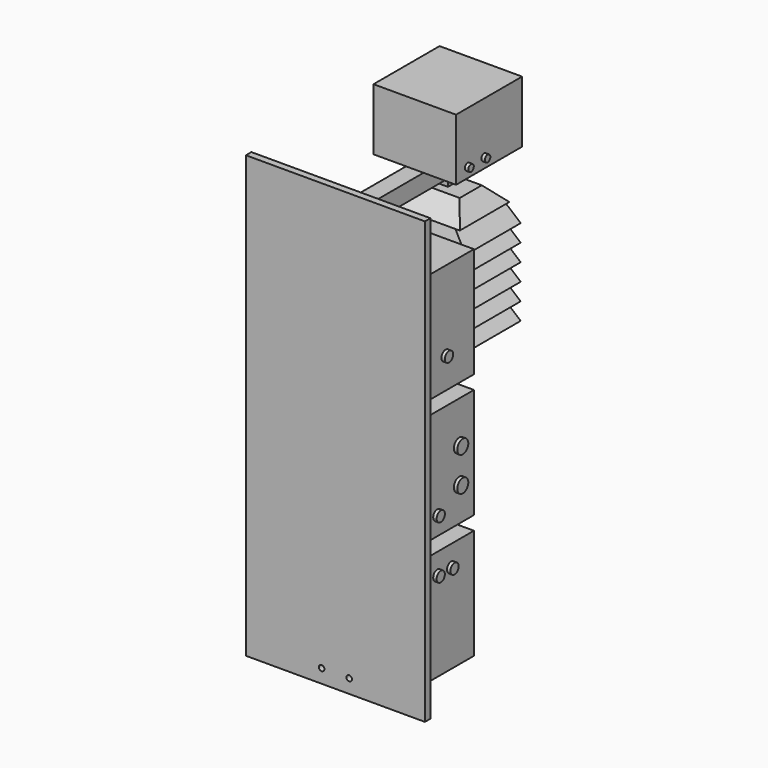
from build123d import *

# Parameters (mm, degrees)
BOX_W                   = 240.03
BOX_H                   = 91.44
BOX_DEPTH               = 160.02
BOX001_W                = 240.03
BOX001_H                = 91.44
BOX001_DEPTH            = 160.02
BOX002_W                = 240.03
BOX002_H                = 91.44
BOX002_DEPTH            = 160.02
BOX003_W                = 119.89
BOX003_H                = 119.89
BOX003_DEPTH            = 89.66
BOX005_W                = 25.4
BOX005_H                = 254
BOX005_DEPTH            = 25.4
BOX018_W                = 15
BOX018_H                = 15
BOX018_DEPTH            = 15
BOX017_W                = 110
BOX017_H                = 120
BOX017_DEPTH            = 46
BOX017_PLACEMENT_ANGLE  = 38.7
BOX016_W                = 110
BOX016_H                = 90
BOX016_DEPTH            = 25
BOX016_PITCH_ANGLE      = -52.3
BOX015_W                = 110
BOX015_H                = 90
BOX015_DEPTH            = 42
BOX015_ROLL_ANGLE       = 45
BOX014_W                = 110
BOX014_H                = 90
BOX014_DEPTH            = 25
BOX014_ROLL_ANGLE       = 45
BOX013_W                = 110
BOX013_H                = 90
BOX013_DEPTH            = 25
CYLINDER_R              = 15
CYLINDER_DEPTH          = 10
CYLINDER001_R           = 10
CYLINDER001_DEPTH       = 10
CYLINDER001_PITCH_ANGLE = 90
CYLINDER002_R           = 10
CYLINDER002_DEPTH       = 10
CYLINDER002_PITCH_ANGLE = 90
CYLINDER003_R           = 7.5
CYLINDER003_DEPTH       = 10
CYLINDER003_PITCH_ANGLE = 90
CYLINDER004_R           = 7.5
CYLINDER004_DEPTH       = 10
CYLINDER004_PITCH_ANGLE = 90
CYLINDER005_R           = 7.5
CYLINDER005_DEPTH       = 10
CYLINDER005_PITCH_ANGLE = 90
CYLINDER006_R           = 7.5
CYLINDER006_DEPTH       = 10
CYLINDER006_PITCH_ANGLE = 90
CYLINDER007_R           = 5
CYLINDER007_DEPTH       = 10
CYLINDER007_PITCH_ANGLE = 90
CYLINDER008_R           = 5
CYLINDER008_DEPTH       = 10
CYLINDER008_PITCH_ANGLE = 90
CYLINDER009_R           = 5
CYLINDER009_DEPTH       = 10
CYLINDER009_PITCH_ANGLE = 90
CYLINDER010_R           = 5
CYLINDER010_DEPTH       = 10
CYLINDER010_PITCH_ANGLE = 90
CYLINDER011_R           = 5
CYLINDER011_DEPTH       = 10
CYLINDER011_PITCH_ANGLE = 90
CYLINDER012_R           = 5
CYLINDER012_DEPTH       = 10
CYLINDER012_PITCH_ANGLE = 90
CYLINDER013_R           = 5
CYLINDER013_DEPTH       = 10
CYLINDER013_PITCH_ANGLE = 90
CYLINDER014_R           = 5
CYLINDER014_DEPTH       = 10
CYLINDER014_PITCH_ANGLE = 90
CYLINDER015_R           = 5
CYLINDER015_DEPTH       = 10
CYLINDER016_R           = 5
CYLINDER016_DEPTH       = 10
BOX026_W                = 200
BOX026_H                = 55
BOX026_DEPTH            = 88
BOX026_ROLL_ANGLE       = 13.5
BOX025_W                = 200
BOX025_H                = 500
BOX025_DEPTH            = 200
BOX025_ROLL_ANGLE       = -13.5
BOX028_W                = 20
BOX028_H                = 500
BOX028_DEPTH            = 200
BOX028_PLACEMENT_ANGLE  = 38.7
BOX024_W                = 135
BOX024_H                = 100
BOX024_DEPTH            = 25
BOX027_W                = 500
BOX027_H                = 500
BOX027_DEPTH            = 500
BOX027_PLACEMENT_ANGLE  = 38.7
BOX031_W                = 200
BOX031_H                = 55
BOX031_DEPTH            = 88
BOX031_ROLL_ANGLE       = 13.5
BOX030_W                = 200
BOX030_H                = 500
BOX030_DEPTH            = 200
BOX030_ROLL_ANGLE       = -13.5
BOX033_W                = 20
BOX033_H                = 500
BOX033_DEPTH            = 200
BOX033_PLACEMENT_ANGLE  = 38.7
BOX029_W                = 135
BOX029_H                = 100
BOX029_DEPTH            = 25
BOX032_W                = 500
BOX032_H                = 500
BOX032_DEPTH            = 500
BOX032_PLACEMENT_ANGLE  = 38.7
BOX036_W                = 200
BOX036_H                = 55
BOX036_DEPTH            = 88
BOX036_ROLL_ANGLE       = 13.5
BOX035_W                = 200
BOX035_H                = 500
BOX035_DEPTH            = 200
BOX035_ROLL_ANGLE       = -13.5
BOX038_W                = 20
BOX038_H                = 500
BOX038_DEPTH            = 200
BOX038_PLACEMENT_ANGLE  = 38.7
BOX034_W                = 135
BOX034_H                = 100
BOX034_DEPTH            = 25
BOX037_W                = 500
BOX037_H                = 500
BOX037_DEPTH            = 500
BOX037_PLACEMENT_ANGLE  = 38.7
BOX012_W                = 200
BOX012_H                = 55
BOX012_DEPTH            = 88
BOX012_ROLL_ANGLE       = 13.5
BOX008_W                = 200
BOX008_H                = 500
BOX008_DEPTH            = 200
BOX008_ROLL_ANGLE       = -13.5
BOX010_W                = 20
BOX010_H                = 500
BOX010_DEPTH            = 200
BOX010_PLACEMENT_ANGLE  = 38.7
BOX009_W                = 135
BOX009_H                = 100
BOX009_DEPTH            = 25
BOX011_W                = 500
BOX011_H                = 500
BOX011_DEPTH            = 500
BOX011_PLACEMENT_ANGLE  = 38.7
BOX023_W                = 200
BOX023_H                = 55
BOX023_DEPTH            = 88
BOX023_ROLL_ANGLE       = 13.5
BOX020_W                = 200
BOX020_H                = 500
BOX020_DEPTH            = 200
BOX020_ROLL_ANGLE       = -13.5
BOX022_W                = 20
BOX022_H                = 500
BOX022_DEPTH            = 200
BOX022_PLACEMENT_ANGLE  = 38.7
BOX019_W                = 135
BOX019_H                = 100
BOX019_DEPTH            = 25
BOX021_W                = 500
BOX021_H                = 500
BOX021_DEPTH            = 500
BOX021_PLACEMENT_ANGLE  = 38.7
CYLINDER018_R           = 4
CYLINDER018_DEPTH       = 10
CYLINDER018_ROLL_ANGLE  = 90
CYLINDER017_R           = 4
CYLINDER017_DEPTH       = 10
CYLINDER017_ROLL_ANGLE  = 90
BOX006_W                = 260.03
BOX006_H                = 10
BOX006_DEPTH            = 640
BOX039_W                = 50
BOX039_H                = 10
BOX039_DEPTH            = 40


with BuildPart() as power_module:
    # Box → Box (new body)
    with BuildSketch(Plane.XY):
        with Locations((120.015, 45.72)):
            Rectangle(BOX_W, BOX_H)
    extrude(amount=BOX_DEPTH)


with BuildPart() as main_module:
    # Box001 → Box001 (new body)
    with BuildSketch(Plane.XY.offset(180)):
        with Locations((120.015, 45.72)):
            Rectangle(BOX001_W, BOX001_H)
    extrude(amount=BOX001_DEPTH)


with BuildPart() as ozone_module:
    # Box002 → Box002 (new body)
    with BuildSketch(Plane.XY.offset(360)):
        with Locations((120.015, 45.72)):
            Rectangle(BOX002_W, BOX002_H)
    extrude(amount=BOX002_DEPTH)


with BuildPart() as light_module:
    # Box003 → Box003 (new body)
    with BuildSketch(Plane(origin=(60.05, 134.1, 565.4), x_dir=(1, 0, 0), z_dir=(0, 0, 1))):
        with Locations((59.945, 59.945)):
            Rectangle(BOX003_W, BOX003_H)
    extrude(amount=BOX003_DEPTH)


with BuildPart() as railing:
    # Box005 → Box005 (new body)
    with BuildSketch(Plane(origin=(107.3, 0, 540), x_dir=(1, 0, 0), z_dir=(0, 0, 1))):
        with Locations((12.7, 127)):
            Rectangle(BOX005_W, BOX005_H)
    extrude(amount=BOX005_DEPTH)


with BuildPart() as cube009:
    # Box018 → Box018 (new body)
    with BuildSketch(Plane(origin=(112.5, 185, 525), x_dir=(1, 0, 0), z_dir=(0, 0, 1))):
        with Locations((7.5, 7.5)):
            Rectangle(BOX018_W, BOX018_H)
    extrude(amount=BOX018_DEPTH)


with BuildPart() as cube008:
    # Box017 → Box017 (new body)
    with BuildSketch(Plane.XY):
        with Locations((55, 60)):
            Rectangle(BOX017_W, BOX017_H)
    extrude(amount=BOX017_DEPTH)


with BuildPart() as cube008_1:
    # Box017 placement: moved
    add(cube008.part.moved(Location((421, -226, 0))).rotate(Axis((421, -226, 0), (0, -1, 0)), BOX017_PLACEMENT_ANGLE))


with BuildPart() as cube007:
    # Box016 → Box016 (new body)
    with BuildSketch(Plane.XY):
        with Locations((55, 45)):
            Rectangle(BOX016_W, BOX016_H)
    extrude(amount=BOX016_DEPTH)


with BuildPart() as cube007_1:
    # Box016 pitch: moved
    add(cube007.part.rotate(Axis((0, 0, 0), (0, 1, 0)), BOX016_PITCH_ANGLE))


with BuildPart() as cube007_2:
    # Box016 placement: moved
    add(cube007_1.part.moved(Location((311, -226, 0))))


with BuildPart() as cube006:
    # Box015 → Box015 (new body)
    with BuildSketch(Plane.XY):
        with Locations((55, 45)):
            Rectangle(BOX015_W, BOX015_H)
    extrude(amount=BOX015_DEPTH)


with BuildPart() as cube006_1:
    # Box015 roll: moved
    add(cube006.part.rotate(Axis((0, 0, 0), (1, 0, 0)), BOX015_ROLL_ANGLE))


with BuildPart() as cube006_2:
    # Box015 placement: moved
    add(cube006_1.part.moved(Location((311, -136, 0))))


with BuildPart() as cube005:
    # Box014 → Box014 (new body)
    with BuildSketch(Plane.XY):
        with Locations((55, 45)):
            Rectangle(BOX014_W, BOX014_H)
    extrude(amount=BOX014_DEPTH)


with BuildPart() as cube005_1:
    # Box014 roll: moved
    add(cube005.part.rotate(Axis((0, 0, 0), (1, 0, 0)), BOX014_ROLL_ANGLE))


with BuildPart() as cube005_2:
    # Box014 placement: moved
    add(cube005_1.part.moved(Location((311, -226, 0))))


with BuildPart() as obj1:
    # Box013 → Box013 (new body)
    with BuildSketch(Plane(origin=(311, -226, 0), x_dir=(1, 0, 0), z_dir=(0, 0, 1))):
        with Locations((55, 45)):
            Rectangle(BOX013_W, BOX013_H)
    extrude(amount=BOX013_DEPTH)

    # Cut002: cut Cube005
    add(cube005_2.part, mode=Mode.SUBTRACT)

    # Cut003: cut Cube006
    add(cube006_2.part, mode=Mode.SUBTRACT)

    # Cut004: cut Cube007
    add(cube007_2.part, mode=Mode.SUBTRACT)

    # Cut005: cut Cube008
    add(cube008_1.part, mode=Mode.SUBTRACT)


with BuildPart() as obj1_1:
    # Cut005 placement: moved
    add(obj1.part.moved(Location((-246, 373, 500))))


with BuildPart() as cylinder:
    # Cylinder → Cylinder (new body)
    with BuildSketch(Plane(origin=(185, 53, 0), x_dir=(-1, 0, 0), z_dir=(0, 0, -1))):
        Circle(CYLINDER_R)
    extrude(amount=CYLINDER_DEPTH)


with BuildPart() as usb:
    # Cylinder001 → Cylinder001 (new body)
    with BuildSketch(Plane.XY):
        Circle(CYLINDER001_R)
    extrude(amount=CYLINDER001_DEPTH)


with BuildPart() as usb_1:
    # Cylinder001 pitch: moved
    add(usb.part.rotate(Axis((0, 0, 0), (0, 1, 0)), CYLINDER001_PITCH_ANGLE))


with BuildPart() as usb_2:
    # Cylinder001 placement: moved
    add(usb_1.part.moved(Location((235, 65, 230))))


with BuildPart() as hdmi:
    # Cylinder002 → Cylinder002 (new body)
    with BuildSketch(Plane.XY):
        Circle(CYLINDER002_R)
    extrude(amount=CYLINDER002_DEPTH)


with BuildPart() as hdmi_1:
    # Cylinder002 pitch: moved
    add(hdmi.part.rotate(Axis((0, 0, 0), (0, 1, 0)), CYLINDER002_PITCH_ANGLE))


with BuildPart() as hdmi_2:
    # Cylinder002 placement: moved
    add(hdmi_1.part.moved(Location((235, 65, 280))))


with BuildPart() as f_12v:
    # Cylinder003 → Cylinder003 (new body)
    with BuildSketch(Plane.XY):
        Circle(CYLINDER003_R)
    extrude(amount=CYLINDER003_DEPTH)


with BuildPart() as f_12v_1:
    # Cylinder003 pitch: moved
    add(f_12v.part.rotate(Axis((0, 0, 0), (0, 1, 0)), CYLINDER003_PITCH_ANGLE))


with BuildPart() as f_12v_2:
    # Cylinder003 placement: moved
    add(f_12v_1.part.moved(Location((235, 50, 130))))


with BuildPart() as f_5v:
    # Cylinder004 → Cylinder004 (new body)
    with BuildSketch(Plane.XY):
        Circle(CYLINDER004_R)
    extrude(amount=CYLINDER004_DEPTH)


with BuildPart() as f_5v_1:
    # Cylinder004 pitch: moved
    add(f_5v.part.rotate(Axis((0, 0, 0), (0, 1, 0)), CYLINDER004_PITCH_ANGLE))


with BuildPart() as f_5v_2:
    # Cylinder004 placement: moved
    add(f_5v_1.part.moved(Location((235, 25, 130))))


with BuildPart() as cylinder005:
    # Cylinder005 → Cylinder005 (new body)
    with BuildSketch(Plane.XY):
        Circle(CYLINDER005_R)
    extrude(amount=CYLINDER005_DEPTH)


with BuildPart() as cylinder005_1:
    # Cylinder005 pitch: moved
    add(cylinder005.part.rotate(Axis((0, 0, 0), (0, 1, 0)), CYLINDER005_PITCH_ANGLE))


with BuildPart() as cylinder005_2:
    # Cylinder005 placement: moved
    add(cylinder005_1.part.moved(Location((235, 25, 207))))


with BuildPart() as cylinder006:
    # Cylinder006 → Cylinder006 (new body)
    with BuildSketch(Plane.XY):
        Circle(CYLINDER006_R)
    extrude(amount=CYLINDER006_DEPTH)


with BuildPart() as cylinder006_1:
    # Cylinder006 pitch: moved
    add(cylinder006.part.rotate(Axis((0, 0, 0), (0, 1, 0)), CYLINDER006_PITCH_ANGLE))


with BuildPart() as cylinder006_2:
    # Cylinder006 placement: moved
    add(cylinder006_1.part.moved(Location((235, 40, 405))))


with BuildPart() as lightmoduleusb:
    # Cylinder007 → Cylinder007 (new body)
    with BuildSketch(Plane.XY):
        Circle(CYLINDER007_R)
    extrude(amount=CYLINDER007_DEPTH)


with BuildPart() as lightmoduleusb_1:
    # Cylinder007 pitch: moved
    add(lightmoduleusb.part.rotate(Axis((0, 0, 0), (0, 1, 0)), CYLINDER007_PITCH_ANGLE))


with BuildPart() as lightmoduleusb_2:
    # Cylinder007 placement: moved
    add(lightmoduleusb_1.part.moved(Location((-5, 75, 310))))


with BuildPart() as obj2:
    # Cylinder008 → Cylinder008 (new body)
    with BuildSketch(Plane.XY):
        Circle(CYLINDER008_R)
    extrude(amount=CYLINDER008_DEPTH)


with BuildPart() as obj2_1:
    # Cylinder008 pitch: moved
    add(obj2.part.rotate(Axis((0, 0, 0), (0, 1, 0)), CYLINDER008_PITCH_ANGLE))


with BuildPart() as obj2_2:
    # Cylinder008 placement: moved
    add(obj2_1.part.moved(Location((-5, 55, 260))))


with BuildPart() as obj3:
    # Cylinder009 → Cylinder009 (new body)
    with BuildSketch(Plane.XY):
        Circle(CYLINDER009_R)
    extrude(amount=CYLINDER009_DEPTH)


with BuildPart() as obj3_1:
    # Cylinder009 pitch: moved
    add(obj3.part.rotate(Axis((0, 0, 0), (0, 1, 0)), CYLINDER009_PITCH_ANGLE))


with BuildPart() as obj3_2:
    # Cylinder009 placement: moved
    add(obj3_1.part.moved(Location((-5, 45, 235))))


with BuildPart() as obj4:
    # Cylinder010 → Cylinder010 (new body)
    with BuildSketch(Plane.XY):
        Circle(CYLINDER010_R)
    extrude(amount=CYLINDER010_DEPTH)


with BuildPart() as obj4_1:
    # Cylinder010 pitch: moved
    add(obj4.part.rotate(Axis((0, 0, 0), (0, 1, 0)), CYLINDER010_PITCH_ANGLE))


with BuildPart() as obj4_2:
    # Cylinder010 placement: moved
    add(obj4_1.part.moved(Location((-5, 35, 210))))


with BuildPart() as camerausb:
    # Cylinder011 → Cylinder011 (new body)
    with BuildSketch(Plane.XY):
        Circle(CYLINDER011_R)
    extrude(amount=CYLINDER011_DEPTH)


with BuildPart() as camerausb_1:
    # Cylinder011 pitch: moved
    add(camerausb.part.rotate(Axis((0, 0, 0), (0, 1, 0)), CYLINDER011_PITCH_ANGLE))


with BuildPart() as camerausb_2:
    # Cylinder011 placement: moved
    add(camerausb_1.part.moved(Location((-5, 65, 285))))


with BuildPart() as cylinder012:
    # Cylinder012 → Cylinder012 (new body)
    with BuildSketch(Plane.XY):
        Circle(CYLINDER012_R)
    extrude(amount=CYLINDER012_DEPTH)


with BuildPart() as cylinder012_1:
    # Cylinder012 pitch: moved
    add(cylinder012.part.rotate(Axis((0, 0, 0), (0, 1, 0)), CYLINDER012_PITCH_ANGLE))


with BuildPart() as cylinder012_2:
    # Cylinder012 placement: moved
    add(cylinder012_1.part.moved(Location((-5, 35, 380))))


with BuildPart() as cylinder013:
    # Cylinder013 → Cylinder013 (new body)
    with BuildSketch(Plane.XY):
        Circle(CYLINDER013_R)
    extrude(amount=CYLINDER013_DEPTH)


with BuildPart() as cylinder013_1:
    # Cylinder013 pitch: moved
    add(cylinder013.part.rotate(Axis((0, 0, 0), (0, 1, 0)), CYLINDER013_PITCH_ANGLE))


with BuildPart() as cylinder013_2:
    # Cylinder013 placement: moved
    add(cylinder013_1.part.moved(Location((175, 155, 580))))


with BuildPart() as cylinder014:
    # Cylinder014 → Cylinder014 (new body)
    with BuildSketch(Plane.XY):
        Circle(CYLINDER014_R)
    extrude(amount=CYLINDER014_DEPTH)


with BuildPart() as cylinder014_1:
    # Cylinder014 pitch: moved
    add(cylinder014.part.rotate(Axis((0, 0, 0), (0, 1, 0)), CYLINDER014_PITCH_ANGLE))


with BuildPart() as cylinder014_2:
    # Cylinder014 placement: moved
    add(cylinder014_1.part.moved(Location((175, 185, 580))))


with BuildPart() as cylinder015:
    # Cylinder015 → Cylinder015 (new body)
    with BuildSketch(Plane(origin=(145, 195, 355), x_dir=(-1, 0, 0), z_dir=(0, 0, -1))):
        Circle(CYLINDER015_R)
    extrude(amount=CYLINDER015_DEPTH)


with BuildPart() as cylinder016:
    # Cylinder016 → Cylinder016 (new body)
    with BuildSketch(Plane(origin=(95, 195, 355), x_dir=(-1, 0, 0), z_dir=(0, 0, -1))):
        Circle(CYLINDER016_R)
    extrude(amount=CYLINDER016_DEPTH)


with BuildPart() as cube015:
    # Box026 → Box026 (new body)
    with BuildSketch(Plane.XY):
        with Locations((100, 27.5)):
            Rectangle(BOX026_W, BOX026_H)
    extrude(amount=BOX026_DEPTH)


with BuildPart() as cube015_1:
    # Box026 roll: moved
    add(cube015.part.rotate(Axis((0, 0, 0), (1, 0, 0)), BOX026_ROLL_ANGLE))


with BuildPart() as cube015_2:
    # Box026 placement: moved
    add(cube015_1.part.moved(Location((-33, -126, 0))))


with BuildPart() as cube014:
    # Box025 → Box025 (new body)
    with BuildSketch(Plane.XY):
        with Locations((100, 250)):
            Rectangle(BOX025_W, BOX025_H)
    extrude(amount=BOX025_DEPTH)


with BuildPart() as cube014_1:
    # Box025 roll: moved
    add(cube014.part.rotate(Axis((0, 0, 0), (1, 0, 0)), BOX025_ROLL_ANGLE))


with BuildPart() as cube014_2:
    # Box025 placement: moved
    add(cube014_1.part.moved(Location((-22, -226, 0))))


with BuildPart() as cube017:
    # Box028 → Box028 (new body)
    with BuildSketch(Plane.XY):
        with Locations((10, 250)):
            Rectangle(BOX028_W, BOX028_H)
    extrude(amount=BOX028_DEPTH)


with BuildPart() as cube017_1:
    # Box028 placement: moved
    add(cube017.part.moved(Location((135, -236, 0))).rotate(Axis((135, -236, 0), (0, -1, 0)), BOX028_PLACEMENT_ANGLE))


with BuildPart() as cut008:
    # Box024 → Box024 (new body)
    with BuildSketch(Plane(origin=(0, -226, 0), x_dir=(1, 0, 0), z_dir=(0, 0, 1))):
        with Locations((67.5, 50)):
            Rectangle(BOX024_W, BOX024_H)
    extrude(amount=BOX024_DEPTH)

    # Cut008: cut Cube017
    add(cube017_1.part, mode=Mode.SUBTRACT)


with BuildPart() as enclosure_common002:
    # Box027 → Box027 (new body)
    with BuildSketch(Plane.XY):
        with Locations((250, 250)):
            Rectangle(BOX027_W, BOX027_H)
    extrude(amount=BOX027_DEPTH)


with BuildPart() as enclosure_common002_1:
    # Box027 placement: moved
    add(enclosure_common002.part.moved(Location((0, -236, 0))).rotate(Axis((0, -236, 0), (0, 1, 0)), BOX027_PLACEMENT_ANGLE))

    # Common005: intersect Cut008
    add(cut008.part, mode=Mode.INTERSECT)

    # Common004: intersect Cube014
    add(cube014_2.part, mode=Mode.INTERSECT)

    # Cut009: cut Cube015
    add(cube015_2.part, mode=Mode.SUBTRACT)


with BuildPart() as enclosure_common002_2:
    # Cut009 placement: moved
    add(enclosure_common002_1.part.moved(Location((52.5, 368, 425))))


with BuildPart() as cube019:
    # Box031 → Box031 (new body)
    with BuildSketch(Plane.XY):
        with Locations((100, 27.5)):
            Rectangle(BOX031_W, BOX031_H)
    extrude(amount=BOX031_DEPTH)


with BuildPart() as cube019_1:
    # Box031 roll: moved
    add(cube019.part.rotate(Axis((0, 0, 0), (1, 0, 0)), BOX031_ROLL_ANGLE))


with BuildPart() as cube019_2:
    # Box031 placement: moved
    add(cube019_1.part.moved(Location((-33, -126, 0))))


with BuildPart() as cube018:
    # Box030 → Box030 (new body)
    with BuildSketch(Plane.XY):
        with Locations((100, 250)):
            Rectangle(BOX030_W, BOX030_H)
    extrude(amount=BOX030_DEPTH)


with BuildPart() as cube018_1:
    # Box030 roll: moved
    add(cube018.part.rotate(Axis((0, 0, 0), (1, 0, 0)), BOX030_ROLL_ANGLE))


with BuildPart() as cube018_2:
    # Box030 placement: moved
    add(cube018_1.part.moved(Location((-22, -226, 0))))


with BuildPart() as cube021:
    # Box033 → Box033 (new body)
    with BuildSketch(Plane.XY):
        with Locations((10, 250)):
            Rectangle(BOX033_W, BOX033_H)
    extrude(amount=BOX033_DEPTH)


with BuildPart() as cube021_1:
    # Box033 placement: moved
    add(cube021.part.moved(Location((135, -236, 0))).rotate(Axis((135, -236, 0), (0, -1, 0)), BOX033_PLACEMENT_ANGLE))


with BuildPart() as cut010:
    # Box029 → Box029 (new body)
    with BuildSketch(Plane(origin=(0, -226, 0), x_dir=(1, 0, 0), z_dir=(0, 0, 1))):
        with Locations((67.5, 50)):
            Rectangle(BOX029_W, BOX029_H)
    extrude(amount=BOX029_DEPTH)

    # Cut010: cut Cube021
    add(cube021_1.part, mode=Mode.SUBTRACT)


with BuildPart() as enclosure_common003:
    # Box032 → Box032 (new body)
    with BuildSketch(Plane.XY):
        with Locations((250, 250)):
            Rectangle(BOX032_W, BOX032_H)
    extrude(amount=BOX032_DEPTH)


with BuildPart() as enclosure_common003_1:
    # Box032 placement: moved
    add(enclosure_common003.part.moved(Location((0, -236, 0))).rotate(Axis((0, -236, 0), (0, 1, 0)), BOX032_PLACEMENT_ANGLE))

    # Common007: intersect Cut010
    add(cut010.part, mode=Mode.INTERSECT)

    # Common006: intersect Cube018
    add(cube018_2.part, mode=Mode.INTERSECT)

    # Cut011: cut Cube019
    add(cube019_2.part, mode=Mode.SUBTRACT)


with BuildPart() as enclosure_common003_2:
    # Cut011 placement: moved
    add(enclosure_common003_1.part.moved(Location((52.5, 368, 400))))


with BuildPart() as cube023:
    # Box036 → Box036 (new body)
    with BuildSketch(Plane.XY):
        with Locations((100, 27.5)):
            Rectangle(BOX036_W, BOX036_H)
    extrude(amount=BOX036_DEPTH)


with BuildPart() as cube023_1:
    # Box036 roll: moved
    add(cube023.part.rotate(Axis((0, 0, 0), (1, 0, 0)), BOX036_ROLL_ANGLE))


with BuildPart() as cube023_2:
    # Box036 placement: moved
    add(cube023_1.part.moved(Location((-33, -126, 0))))


with BuildPart() as cube022:
    # Box035 → Box035 (new body)
    with BuildSketch(Plane.XY):
        with Locations((100, 250)):
            Rectangle(BOX035_W, BOX035_H)
    extrude(amount=BOX035_DEPTH)


with BuildPart() as cube022_1:
    # Box035 roll: moved
    add(cube022.part.rotate(Axis((0, 0, 0), (1, 0, 0)), BOX035_ROLL_ANGLE))


with BuildPart() as cube022_2:
    # Box035 placement: moved
    add(cube022_1.part.moved(Location((-22, -226, 0))))


with BuildPart() as cube025:
    # Box038 → Box038 (new body)
    with BuildSketch(Plane.XY):
        with Locations((10, 250)):
            Rectangle(BOX038_W, BOX038_H)
    extrude(amount=BOX038_DEPTH)


with BuildPart() as cube025_1:
    # Box038 placement: moved
    add(cube025.part.moved(Location((135, -236, 0))).rotate(Axis((135, -236, 0), (0, -1, 0)), BOX038_PLACEMENT_ANGLE))


with BuildPart() as cut012:
    # Box034 → Box034 (new body)
    with BuildSketch(Plane(origin=(0, -226, 0), x_dir=(1, 0, 0), z_dir=(0, 0, 1))):
        with Locations((67.5, 50)):
            Rectangle(BOX034_W, BOX034_H)
    extrude(amount=BOX034_DEPTH)

    # Cut012: cut Cube025
    add(cube025_1.part, mode=Mode.SUBTRACT)


with BuildPart() as enclosure_common004:
    # Box037 → Box037 (new body)
    with BuildSketch(Plane.XY):
        with Locations((250, 250)):
            Rectangle(BOX037_W, BOX037_H)
    extrude(amount=BOX037_DEPTH)


with BuildPart() as enclosure_common004_1:
    # Box037 placement: moved
    add(enclosure_common004.part.moved(Location((0, -236, 0))).rotate(Axis((0, -236, 0), (0, 1, 0)), BOX037_PLACEMENT_ANGLE))

    # Common009: intersect Cut012
    add(cut012.part, mode=Mode.INTERSECT)

    # Common008: intersect Cube022
    add(cube022_2.part, mode=Mode.INTERSECT)

    # Cut013: cut Cube023
    add(cube023_2.part, mode=Mode.SUBTRACT)


with BuildPart() as enclosure_common004_2:
    # Cut013 placement: moved
    add(enclosure_common004_1.part.moved(Location((52.5, 368, 375))))


with BuildPart() as cube003:
    # Box012 → Box012 (new body)
    with BuildSketch(Plane.XY):
        with Locations((100, 27.5)):
            Rectangle(BOX012_W, BOX012_H)
    extrude(amount=BOX012_DEPTH)


with BuildPart() as cube003_1:
    # Box012 roll: moved
    add(cube003.part.rotate(Axis((0, 0, 0), (1, 0, 0)), BOX012_ROLL_ANGLE))


with BuildPart() as cube003_2:
    # Box012 placement: moved
    add(cube003_1.part.moved(Location((-33, -126, 0))))


with BuildPart() as cube001:
    # Box008 → Box008 (new body)
    with BuildSketch(Plane.XY):
        with Locations((100, 250)):
            Rectangle(BOX008_W, BOX008_H)
    extrude(amount=BOX008_DEPTH)


with BuildPart() as cube001_1:
    # Box008 roll: moved
    add(cube001.part.rotate(Axis((0, 0, 0), (1, 0, 0)), BOX008_ROLL_ANGLE))


with BuildPart() as cube001_2:
    # Box008 placement: moved
    add(cube001_1.part.moved(Location((-22, -226, 0))))


with BuildPart() as cube:
    # Box010 → Box010 (new body)
    with BuildSketch(Plane.XY):
        with Locations((10, 250)):
            Rectangle(BOX010_W, BOX010_H)
    extrude(amount=BOX010_DEPTH)


with BuildPart() as cube_1:
    # Box010 placement: moved
    add(cube.part.moved(Location((135, -236, 0))).rotate(Axis((135, -236, 0), (0, -1, 0)), BOX010_PLACEMENT_ANGLE))


with BuildPart() as cut:
    # Box009 → Box009 (new body)
    with BuildSketch(Plane(origin=(0, -226, 0), x_dir=(1, 0, 0), z_dir=(0, 0, 1))):
        with Locations((67.5, 50)):
            Rectangle(BOX009_W, BOX009_H)
    extrude(amount=BOX009_DEPTH)

    # Cut: cut Cube
    add(cube_1.part, mode=Mode.SUBTRACT)


with BuildPart() as common001:
    # Box011 → Box011 (new body)
    with BuildSketch(Plane.XY):
        with Locations((250, 250)):
            Rectangle(BOX011_W, BOX011_H)
    extrude(amount=BOX011_DEPTH)


with BuildPart() as common001_1:
    # Box011 placement: moved
    add(common001.part.moved(Location((0, -236, 0))).rotate(Axis((0, -236, 0), (0, 1, 0)), BOX011_PLACEMENT_ANGLE))

    # Common: intersect Cut
    add(cut.part, mode=Mode.INTERSECT)

    # Common001: intersect Cube001
    add(cube001_2.part, mode=Mode.INTERSECT)


with BuildPart() as enclosure_common005:
    # Cut014 base: copy of Common001
    add(common001_1.part)

    # Cut014: cut Cube003
    add(cube003_2.part, mode=Mode.SUBTRACT)


with BuildPart() as enclosure_common005_1:
    # Cut014 placement: moved
    add(enclosure_common005.part.moved(Location((52.5, 368, 350))))


with BuildPart() as enclosure_common000:
    # Cut001 base: copy of Common001
    add(common001_1.part)

    # Cut001: cut Cube003
    add(cube003_2.part, mode=Mode.SUBTRACT)


with BuildPart() as enclosure_common000_1:
    # Cut001 placement: moved
    add(enclosure_common000.part.moved(Location((52.5, 368, 475))))


with BuildPart() as cube013:
    # Box023 → Box023 (new body)
    with BuildSketch(Plane.XY):
        with Locations((100, 27.5)):
            Rectangle(BOX023_W, BOX023_H)
    extrude(amount=BOX023_DEPTH)


with BuildPart() as cube013_1:
    # Box023 roll: moved
    add(cube013.part.rotate(Axis((0, 0, 0), (1, 0, 0)), BOX023_ROLL_ANGLE))


with BuildPart() as cube013_2:
    # Box023 placement: moved
    add(cube013_1.part.moved(Location((-33, -126, 0))))


with BuildPart() as cube010:
    # Box020 → Box020 (new body)
    with BuildSketch(Plane.XY):
        with Locations((100, 250)):
            Rectangle(BOX020_W, BOX020_H)
    extrude(amount=BOX020_DEPTH)


with BuildPart() as cube010_1:
    # Box020 roll: moved
    add(cube010.part.rotate(Axis((0, 0, 0), (1, 0, 0)), BOX020_ROLL_ANGLE))


with BuildPart() as cube010_2:
    # Box020 placement: moved
    add(cube010_1.part.moved(Location((-22, -226, 0))))


with BuildPart() as cube012:
    # Box022 → Box022 (new body)
    with BuildSketch(Plane.XY):
        with Locations((10, 250)):
            Rectangle(BOX022_W, BOX022_H)
    extrude(amount=BOX022_DEPTH)


with BuildPart() as cube012_1:
    # Box022 placement: moved
    add(cube012.part.moved(Location((135, -236, 0))).rotate(Axis((135, -236, 0), (0, -1, 0)), BOX022_PLACEMENT_ANGLE))


with BuildPart() as cut007:
    # Box019 → Box019 (new body)
    with BuildSketch(Plane(origin=(0, -226, 0), x_dir=(1, 0, 0), z_dir=(0, 0, 1))):
        with Locations((67.5, 50)):
            Rectangle(BOX019_W, BOX019_H)
    extrude(amount=BOX019_DEPTH)

    # Cut007: cut Cube012
    add(cube012_1.part, mode=Mode.SUBTRACT)


with BuildPart() as fusion001:
    # Box021 → Box021 (new body)
    with BuildSketch(Plane.XY):
        with Locations((250, 250)):
            Rectangle(BOX021_W, BOX021_H)
    extrude(amount=BOX021_DEPTH)


with BuildPart() as fusion001_1:
    # Box021 placement: moved
    add(fusion001.part.moved(Location((0, -236, 0))).rotate(Axis((0, -236, 0), (0, 1, 0)), BOX021_PLACEMENT_ANGLE))

    # Common002: intersect Cut007
    add(cut007.part, mode=Mode.INTERSECT)

    # Common003: intersect Cube010
    add(cube010_2.part, mode=Mode.INTERSECT)

    # Cut006: cut Cube013
    add(cube013_2.part, mode=Mode.SUBTRACT)


with BuildPart() as fusion001_2:
    # Cut006 placement: moved
    add(fusion001_1.part.moved(Location((52.5, 368, 450))))

    # Fusion001: union Enclosure Common002, Enclosure Common003, Enclosure Common004, Enclosure Common005, Enclosure Common000
    add(enclosure_common002_2.part)
    add(enclosure_common003_2.part)
    add(enclosure_common004_2.part)
    add(enclosure_common005_1.part)
    add(enclosure_common000_1.part)


with BuildPart() as cutout001:
    # Cylinder018 → Cylinder018 (new body)
    with BuildSketch(Plane.XY):
        Circle(CYLINDER018_R)
    extrude(amount=CYLINDER018_DEPTH)


with BuildPart() as cutout001_1:
    # Cylinder018 roll: moved
    add(cutout001.part.rotate(Axis((0, 0, 0), (1, 0, 0)), CYLINDER018_ROLL_ANGLE))


with BuildPart() as cutout001_2:
    # Cylinder018 placement: moved
    add(cutout001_1.part.moved(Location((100, 0, -20))))


with BuildPart() as cutout:
    # Cylinder017 → Cylinder017 (new body)
    with BuildSketch(Plane.XY):
        Circle(CYLINDER017_R)
    extrude(amount=CYLINDER017_DEPTH)


with BuildPart() as cutout_1:
    # Cylinder017 roll: moved
    add(cutout.part.rotate(Axis((0, 0, 0), (1, 0, 0)), CYLINDER017_ROLL_ANGLE))


with BuildPart() as cutout_2:
    # Cylinder017 placement: moved
    add(cutout_1.part.moved(Location((140, 0, -20))))


with BuildPart() as cutout2:
    # Fusion002 base: copy of CutOut
    add(cutout_2.part)

    # Fusion002: union CutOut001
    add(cutout001_2.part)


with BuildPart() as cutout2_1:
    # Fusion002 placement: moved
    add(cutout2.part.moved(Location((0, 0, 600))))


with BuildPart() as cutout1:
    # Fusion base: copy of CutOut
    add(cutout_2.part)

    # Fusion: union CutOut001
    add(cutout001_2.part)


with BuildPart() as cut015:
    # Box006 → Box006 (new body)
    with BuildSketch(Plane(origin=(-10, -10, -40), x_dir=(1, 0, 0), z_dir=(0, 0, 1))):
        with Locations((130.015, 5)):
            Rectangle(BOX006_W, BOX006_H)
    extrude(amount=BOX006_DEPTH)

    # Cut015: cut Cutout1
    add(cutout1.part, mode=Mode.SUBTRACT)


with BuildPart() as obj5:
    # Box039 → Box039 (new body)
    with BuildSketch(Plane.XY):
        with Locations((25, 5)):
            Rectangle(BOX039_W, BOX039_H)
    extrude(amount=BOX039_DEPTH)


solid = Compound([power_module.part, main_module.part, ozone_module.part, light_module.part, railing.part, cube009.part, obj1_1.part, cylinder.part, usb_2.part, hdmi_2.part, f_12v_2.part, f_5v_2.part, cylinder005_2.part, cylinder006_2.part, lightmoduleusb_2.part, obj2_2.part, obj3_2.part, obj4_2.part, camerausb_2.part, cylinder012_2.part, cylinder013_2.part, cylinder014_2.part, cylinder015.part, cylinder016.part, fusion001_2.part, cutout2_1.part, cut015.part, obj5.part])
